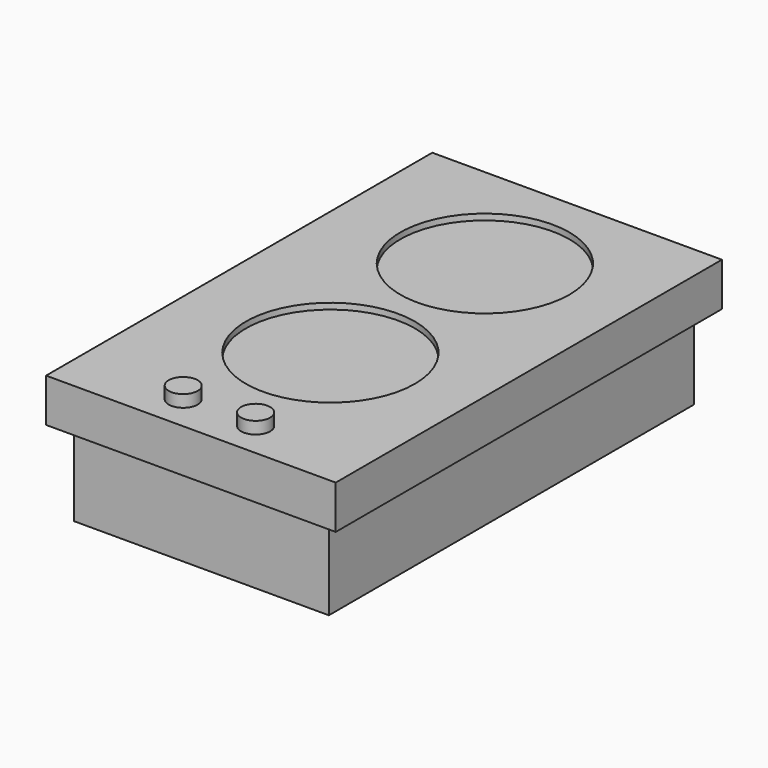
from build123d import *

# Parameters (mm, degrees)
F0_W     = 304.8
F0_H     = 508
F1_DEPTH = 45.72
F3_W     = 267.97
F3_H     = 480.06
F4_DEPTH = 88.9
F5_R     = 88.9
F6_DEPTH = 6.35
F7_R     = 15.24
F8_DEPTH = 12.7


with BuildPart() as f1:
    # F0 (on Top) → F1 (new body)
    with BuildSketch(Plane.XY):
        with Locations((-4.550833, 30.915228)):
            Rectangle(F0_W, F0_H)
    extrude(amount=F1_DEPTH)

    # F3 (on face) → F4 (join)
    with BuildSketch(Plane(origin=(0, 0, 0), x_dir=(1, 0, 0), z_dir=(0, 0, -1))):
        with Locations((-4.550833, -30.915228)):
            Rectangle(F3_W, F3_H)
    extrude(amount=F4_DEPTH)

    # F5 (on face) → F6 (cut)
    with BuildSketch(Plane.XY.offset(45.72)):
        with Locations((0, 157.915228)):
            Circle(F5_R)
        with Locations((0, -45.284772)):
            Circle(F5_R)
    extrude(amount=-F6_DEPTH, mode=Mode.SUBTRACT)

    # F7 (on face) → F8 (join)
    with BuildSketch(Plane.XY.offset(45.72)):
        with Locations((-42.650833, -185.567364)):
            Circle(F7_R)
        with Locations((33.549167, -185.567364)):
            Circle(F7_R)
    extrude(amount=F8_DEPTH)


solid = f1.part
